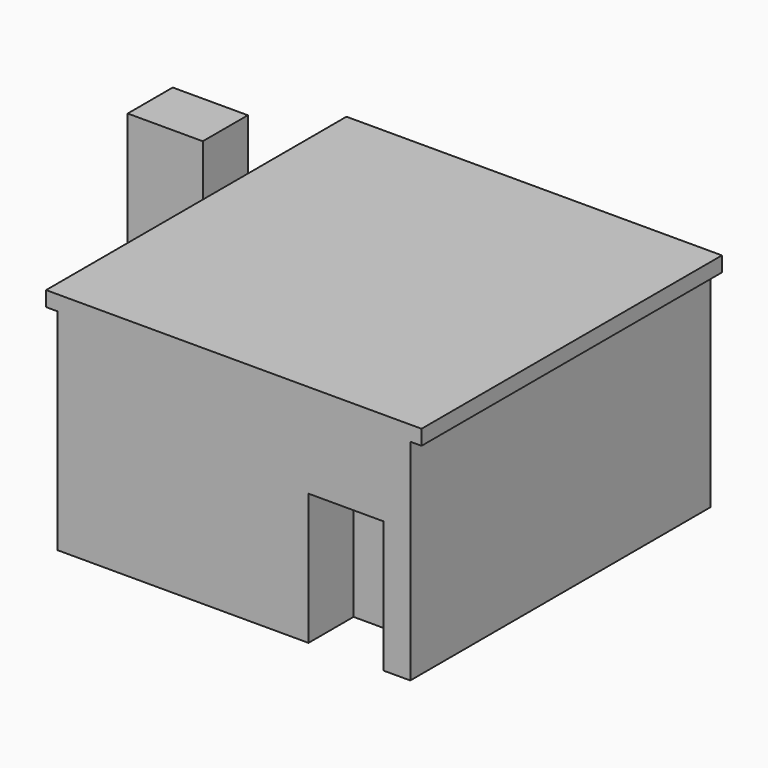
from build123d import *

# Parameters (mm, degrees)
F0_W     = 127
F0_H     = 76.2
F1_DEPTH = 127
F2_W     = 25.4
F2_H     = 44.45
F3_DEPTH = 19.05
F4_W     = 25.4
F4_H     = 44.45
F5_DEPTH = 19.05
F6_W     = 3.81
F6_H     = 71.12
F7_DEPTH = 127
F8_W     = 3.81
F8_H     = 71.12
F9_DEPTH = 127


with BuildPart() as f1:
    # F0 (on Front) → F1 (new body)
    with BuildSketch(Plane.XZ):
        with Locations((0.67462, 0.675859)):
            Rectangle(F0_W, F0_H)
    extrude(amount=F1_DEPTH)

    # F2 (on face) → F3 (cut)
    with BuildSketch(Plane.XZ.offset(127)):
        with Locations((38.636803, -15.199141)):
            Rectangle(F2_W, F2_H)
    extrude(amount=-F3_DEPTH, mode=Mode.SUBTRACT)

    # F6 (on face) → F7 (cut)
    with BuildSketch(Plane.XZ.offset(127)):
        with Locations((-60.92038, -1.864141)):
            Rectangle(F6_W, F6_H)
    extrude(amount=-F7_DEPTH, mode=Mode.SUBTRACT)

    # F8 (on face) → F9 (cut)
    with BuildSketch(Plane.XZ.offset(127)):
        with Locations((62.26962, -1.864141)):
            Rectangle(F8_W, F8_H)
    extrude(amount=-F9_DEPTH, mode=Mode.SUBTRACT)


with BuildPart() as f5:
    # F4 (on Front) → F5 (new body)
    with BuildSketch(Plane.XZ):
        with Locations((-108.883761, 6.133098)):
            Rectangle(F4_W, F4_H)
    extrude(amount=F5_DEPTH)


solid = Compound([f1.part, f5.part])
